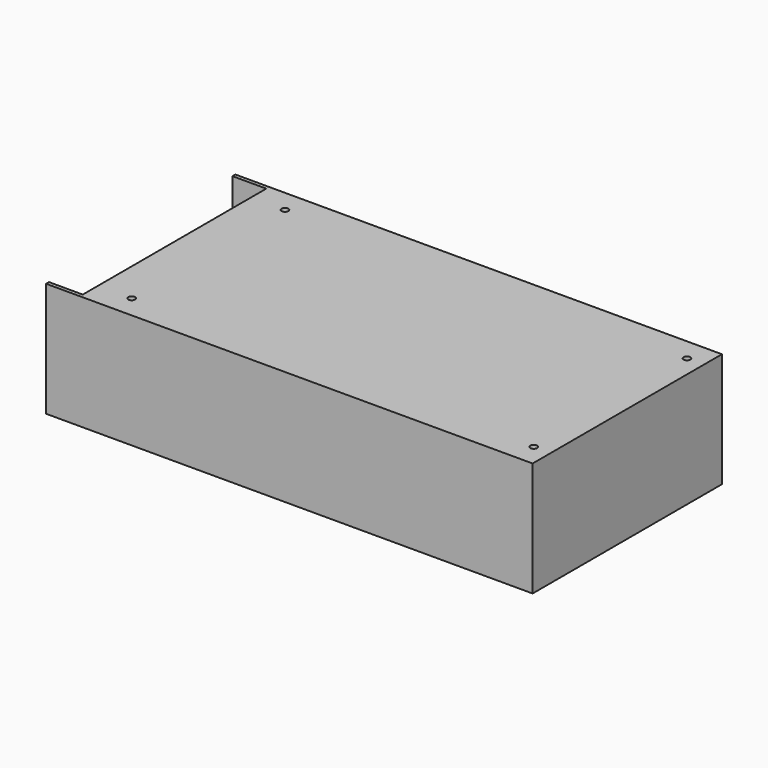
from build123d import *

# Parameters (mm, degrees)
F0_W     = 215.9
F0_H     = 105
F1_DEPTH = 50.8
F2_R     = 1.5
F3_DEPTH = 5
F4_W     = 15
F4_H     = 101.8
F5_DEPTH = 40.8


with BuildPart() as f1:
    # F0 (on Top) → F1 (new body)
    with BuildSketch(Plane.XY):
        Rectangle(F0_W, F0_H)
    extrude(amount=F1_DEPTH)

    # F2 (on face) → F3 (cut)
    with BuildSketch(Plane.XY.offset(50.8)):
        with Locations((100.45, 42.5)):
            Circle(F2_R)
        with Locations((100.45, -42.5)):
            Circle(F2_R)
        with Locations((-77.95, -42.5)):
            Circle(F2_R)
        with Locations((-77.95, 42.5)):
            Circle(F2_R)
    extrude(amount=-F3_DEPTH, mode=Mode.SUBTRACT)

    # F4 (on face) → F5 (cut)
    with BuildSketch(Plane.XY.offset(50.8)):
        with Locations((-100.45, 0)):
            Rectangle(F4_W, F4_H)
    extrude(amount=-F5_DEPTH, mode=Mode.SUBTRACT)


solid = f1.part
